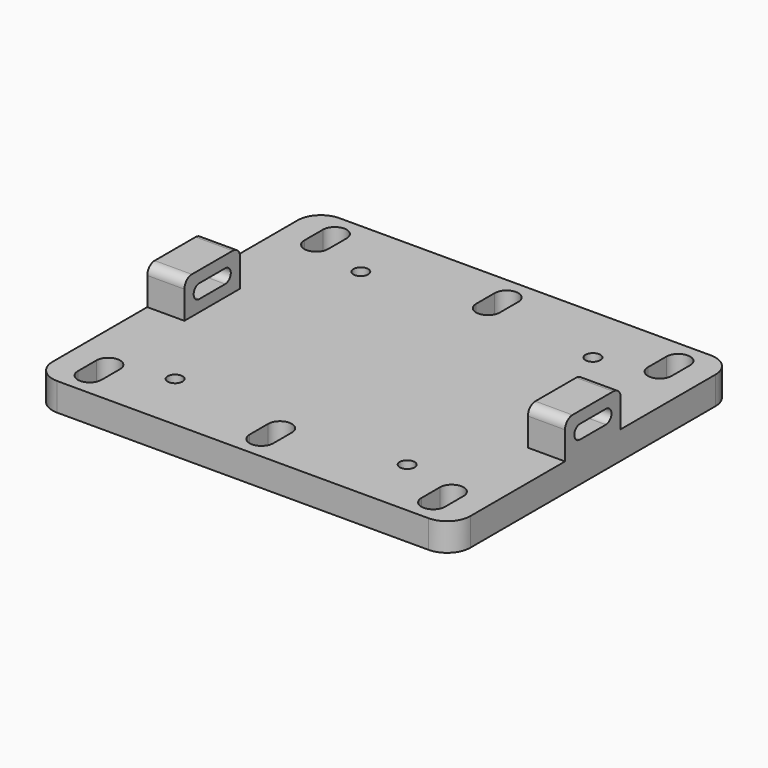
from build123d import *

# Parameters (mm, degrees)
SKETCH_W        = 90
SKETCH_H        = 76
PAD_DEPTH       = 6
FILLET_R        = 5
SKETCH001_R     = 1.6
POCKET_DEPTH    = 6
SKETCH002_W     = 8
SKETCH002_H     = 15
PAD001_DEPTH    = 8
POCKET001_DEPTH = 90.001
FILLET001_R     = 2


with BuildPart() as part:
    # Sketch → Pad (new body)
    with BuildSketch(Plane.XY):
        Rectangle(SKETCH_W, SKETCH_H)
        with BuildLine():
            ThreePointArc((-34.45, 33), (-37, 35.55), (-39.55, 33))
            Line((-39.55, 33), (-39.55, 28))
            ThreePointArc((-39.55, 28), (-37, 25.45), (-34.45, 28))
            Line((-34.45, 33), (-34.45, 28))
        make_face(mode=Mode.SUBTRACT)
        with BuildLine():
            ThreePointArc((2.55, 33), (0, 35.55), (-2.55, 33))
            Line((-2.55, 33), (-2.55, 28))
            ThreePointArc((-2.55, 28), (0, 25.45), (2.55, 28))
            Line((2.55, 33), (2.55, 28))
        make_face(mode=Mode.SUBTRACT)
        with BuildLine():
            ThreePointArc((39.55, -28), (37, -25.45), (34.45, -28))
            Line((34.45, -28), (34.45, -33))
            ThreePointArc((34.45, -33), (37, -35.55), (39.55, -33))
            Line((39.55, -28), (39.55, -33))
        make_face(mode=Mode.SUBTRACT)
        with BuildLine():
            ThreePointArc((2.55, -28), (0, -25.45), (-2.55, -28))
            Line((-2.55, -28), (-2.55, -33))
            ThreePointArc((-2.55, -33), (0, -35.55), (2.55, -33))
            Line((2.55, -28), (2.55, -33))
        make_face(mode=Mode.SUBTRACT)
        with BuildLine():
            ThreePointArc((-34.45, -28), (-37, -25.45), (-39.55, -28))
            Line((-39.55, -28), (-39.55, -33))
            ThreePointArc((-39.55, -33), (-37, -35.55), (-34.45, -33))
            Line((-34.45, -28), (-34.45, -33))
        make_face(mode=Mode.SUBTRACT)
        with BuildLine():
            ThreePointArc((39.55, 33), (37, 35.55), (34.45, 33))
            Line((34.45, 33), (34.45, 28))
            ThreePointArc((34.45, 28), (37, 25.45), (39.55, 28))
            Line((39.55, 33), (39.55, 28))
        make_face(mode=Mode.SUBTRACT)
    extrude(amount=PAD_DEPTH)

    # Fillet
    fillet_edges = [part.edges().sort_by_distance(p)[0] for p in [
        (45, -38, 3),
        (-45, -38, 3),
        (45, 38, 3),
        (-45, 38, 3),
    ]]
    fillet(fillet_edges, radius=FILLET_R)

    # Sketch001 (on Face5 of Fillet) → Pocket (cut)
    with BuildSketch(Plane.XY.offset(6)):
        with Locations((25, 25)):
            Circle(SKETCH001_R)
        with Locations((25, -25)):
            Circle(SKETCH001_R)
        with Locations((-25, 25)):
            Circle(SKETCH001_R)
        with Locations((-25, -25)):
            Circle(SKETCH001_R)
    extrude(amount=-POCKET_DEPTH, mode=Mode.SUBTRACT)

    # Sketch002 (on Face5 of Pocket) → Pad001 (join)
    with BuildSketch(Plane.XY.offset(6)):
        with Locations((-41, 0)):
            Rectangle(SKETCH002_W, SKETCH002_H)
        with Locations((41, 0)):
            Rectangle(SKETCH002_W, SKETCH002_H)
    extrude(amount=PAD001_DEPTH)

    # Sketch003 (on Face6 of Pad001) → Pocket001 (cut, through all)
    with BuildSketch(Plane(origin=(-45, 0, 0), x_dir=(0, -1, 0), z_dir=(-1, 0, 0))):
        with BuildLine():
            ThreePointArc((-3.5, 11.5), (-5, 10), (-3.5, 8.5))
            Line((-3.5, 8.5), (3.5, 8.5))
            ThreePointArc((3.5, 8.5), (5, 10), (3.5, 11.5))
            Line((-3.5, 11.5), (3.5, 11.5))
        make_face()
    extrude(amount=-POCKET001_DEPTH, mode=Mode.SUBTRACT)

    # Fillet001
    fillet001_edges = [part.edges().sort_by_distance(p)[0] for p in [
        (-41, 7.5, 14),
        (-41, -7.5, 14),
        (41, -7.5, 14),
        (41, 7.5, 14),
    ]]
    fillet(fillet001_edges, radius=FILLET001_R)


solid = part.part
